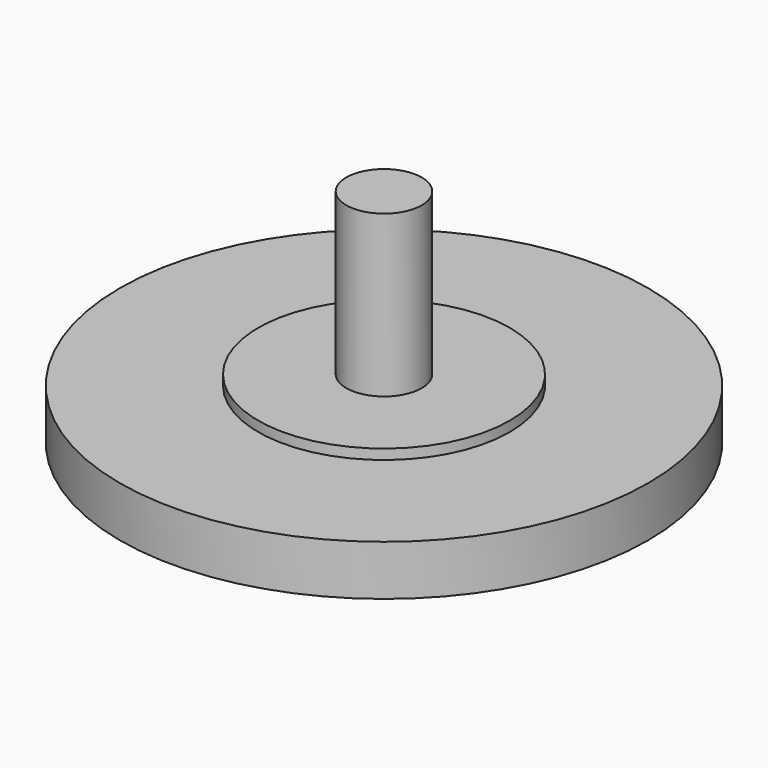
from build123d import *

# Parameters (mm, degrees)
F0_R     = 10.5
F0_R_2   = 5
F1_DEPTH = 2
F0_R_3   = 1.5
F2_DEPTH = 2.4
F3_DEPTH = 8.8
F4_R     = 9.1491985745
F4_R_2   = 8.6636622234
F5_DEPTH = 0.5
F6_DEPTH = 0.3
F7_DEPTH = 0.4


with BuildPart() as f1:
    # F0 (on Top) → F1 (new body)
    with BuildSketch(Plane.XY):
        Circle(F0_R)
        Circle(F0_R_2, mode=Mode.SUBTRACT)
    extrude(amount=F1_DEPTH)

    # F0 (on Top) → F2 (join)
    with BuildSketch(Plane.XY):
        Circle(F0_R_2)
        Circle(F0_R_3, mode=Mode.SUBTRACT)
    extrude(amount=F2_DEPTH)

    # F0 (on Top) → F3 (join)
    with BuildSketch(Plane.XY):
        Circle(F0_R_3)
    extrude(amount=F3_DEPTH)

    # F4 (on Top) → F5 (cut)
    with BuildSketch(Plane.XY):
        Circle(F4_R)
        Circle(F4_R_2, mode=Mode.SUBTRACT)
    extrude(amount=F5_DEPTH, mode=Mode.SUBTRACT)

    # F4 (on Top) → F6 (cut)
    with BuildSketch(Plane.XY):
        with BuildLine():
            add(Edge.make_bspline(
                [(4.1688866913, -2.9023673851), (3.9144772799, -3.8877059385), (3.0383949543, -5.9327386392), (-0.0186656764, -7.091648147), (-2.9672829173, -5.9870436799), (-5.0607166537, -3.6839280011), (-4.9886618568, 0.6278081445), (-1.5437555983, 1.0492785391), (1.299281452, 3.794919019), (-1.503906312, 5.8573370372), (-2.7407631568, 2.6612987769), (-6.0396784358, 2.6793872008), (-2.4157720158, 8.0213217335), (1.8878110616, 7.3381795972), (5.1885278942, 4.0895560946), (2.1839699453, -0.2273887211), (-2.8227464874, -0.7341900208), (-0.640240004, -5.3768052391), (2.0618283018, -3.7214089112), (1.9654578706, -0.5720171897), (4.525543887, -0.7295359544), (4.3680016446, -2.131186638), (4.1688866913, -2.9023673851)],
                knots=[0, 0, 0, 0, 0.0512099319, 0.101136201, 0.1511823295, 0.2018833019, 0.2558867944, 0.3078667379, 0.3591532059, 0.3992099576, 0.448116561, 0.4856911878, 0.5480074073, 0.606865055, 0.6630370597, 0.7237052484, 0.781665748, 0.8332735566, 0.8761808734, 0.9241309859, 0.9599202595, 1, 1, 1, 1], degree=3))
        make_face()
        with BuildLine():
            add(Edge.make_bspline(
                [(2.6781053748, -2.7335009072), (2.7909224339, -2.3730297888), (2.7815414714, -1.9264769608), (4.0533960979, -1.6546859492), (2.6657700471, -5.3232261777), (0.0420344629, -6.4101870732), (-2.686315291, -5.2894278726), (-4.1566444128, -2.8887550963), (-3.8274485179, -0.373790781), (-0.6379933798, 0.8542593425), (1.7900238192, 2.8243640547), (0.7996567541, 6.0270902088), (-2.5461976153, 5.6784982477), (-4.0499042153, 3.1214100591), (-3.7435695486, 4.8604791347), (-1.9134705126, 6.342825937), (-0.4622179917, 6.9040094743), (1.5783790259, 6.4169137027), (3.1270149269, 4.9086291242), (3.2459462926, 3.3127312161), (1.7926121691, 1.0210931), (-1.2794943115, 0.2108895649), (-2.7149670358, -1.3002908187), (-2.3802224283, -4.2478697736), (-0.527024938, -5.200538862), (1.4366356109, -5.204496375), (2.4786259003, -3.3708742782), (2.6781053748, -2.7335009072)],
                knots=[0, 0, 0, 0, 0.0247752951, 0.0452506044, 0.0932140095, 0.1390731978, 0.1841668238, 0.2290897436, 0.2690220151, 0.31877982, 0.3654939758, 0.4084688853, 0.4552709043, 0.4941511754, 0.5194831068, 0.5625494841, 0.5966621376, 0.6354146428, 0.6746904027, 0.707603784, 0.7511410657, 0.7996603411, 0.8376182089, 0.88185617, 0.9196721577, 0.9561931246, 1, 1, 1, 1], degree=3))
        make_face(mode=Mode.SUBTRACT)
    extrude(amount=F6_DEPTH, mode=Mode.SUBTRACT)

    # F4 (on Top) → F7 (join)
    with BuildSketch(Plane.XY):
        with BuildLine():
            add(Edge.make_bspline(
                [(2.6781053748, -2.7335009072), (2.7909224339, -2.3730297888), (2.7815414714, -1.9264769608), (4.0533960979, -1.6546859492), (2.6657700471, -5.3232261777), (0.0420344629, -6.4101870732), (-2.686315291, -5.2894278726), (-4.1566444128, -2.8887550963), (-3.8274485179, -0.373790781), (-0.6379933798, 0.8542593425), (1.7900238192, 2.8243640547), (0.7996567541, 6.0270902088), (-2.5461976153, 5.6784982477), (-4.0499042153, 3.1214100591), (-3.7435695486, 4.8604791347), (-1.9134705126, 6.342825937), (-0.4622179917, 6.9040094743), (1.5783790259, 6.4169137027), (3.1270149269, 4.9086291242), (3.2459462926, 3.3127312161), (1.7926121691, 1.0210931), (-1.2794943115, 0.2108895649), (-2.7149670358, -1.3002908187), (-2.3802224283, -4.2478697736), (-0.527024938, -5.200538862), (1.4366356109, -5.204496375), (2.4786259003, -3.3708742782), (2.6781053748, -2.7335009072)],
                knots=[0, 0, 0, 0, 0.0247752951, 0.0452506044, 0.0932140095, 0.1390731978, 0.1841668238, 0.2290897436, 0.2690220151, 0.31877982, 0.3654939758, 0.4084688853, 0.4552709043, 0.4941511754, 0.5194831068, 0.5625494841, 0.5966621376, 0.6354146428, 0.6746904027, 0.707603784, 0.7511410657, 0.7996603411, 0.8376182089, 0.88185617, 0.9196721577, 0.9561931246, 1, 1, 1, 1], degree=3))
        make_face()
    extrude(amount=F7_DEPTH)


solid = f1.part
